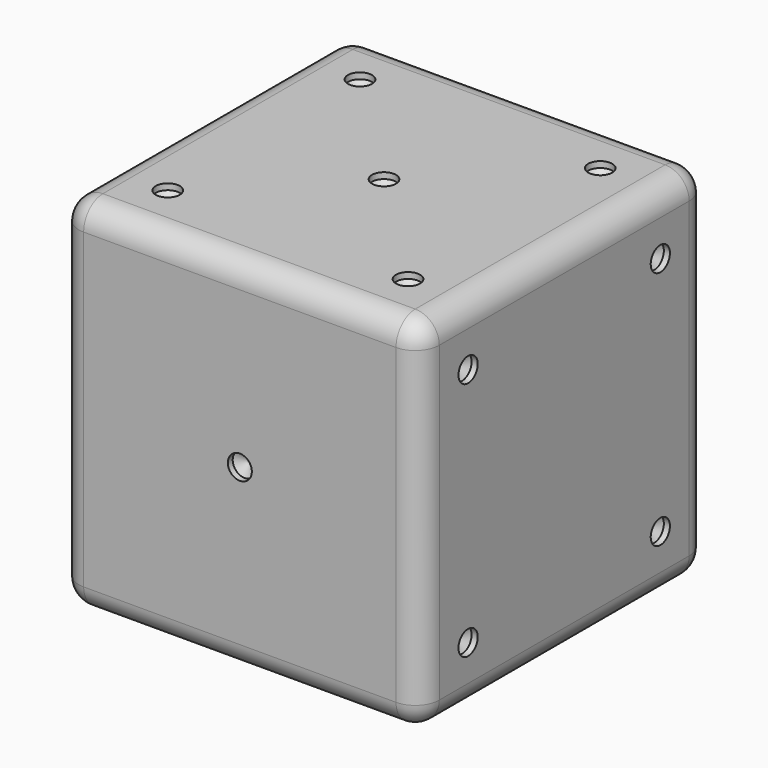
from build123d import *

# Parameters (mm, degrees)
F0_W      = 30
F0_H      = 30
F1_DEPTH  = 15
F2_R      = 2
F3_R      = 2
F10_D     = 2
F10_DEPTH = 0.508
F10_TIP   = 0.600860619
F11_D     = 2
F11_DEPTH = 0.508
F11_TIP   = 0.600860619
F12_D     = 2
F12_DEPTH = 0.508
F12_TIP   = 0.600860619
F13_D     = 2
F13_DEPTH = 0.508
F13_TIP   = 0.600860619
F14_D     = 2
F14_DEPTH = 0.508
F14_TIP   = 0.600860619
F15_D     = 2
F15_DEPTH = 0.508
F15_TIP   = 0.600860619


with BuildPart() as f1:
    # F0 (on Front) → F1 (new body, symmetric)
    with BuildSketch(Plane.XZ):
        with Locations((-1.0603153623, 0.943120569)):
            Rectangle(F0_W, F0_H)
    extrude(amount=F1_DEPTH, both=True)

    # F2
    f2_edges = [f1.edges().sort_by_distance(p)[0] for p in [
        (-1.060315, -15, 15.943121),
    ]]
    fillet(f2_edges, radius=F2_R)

    # F3
    f3_edges = [f1.edges().sort_by_distance(p)[0] for p in [
        (13.939685, 1, 15.943121),
        (-1.060315, 15, 15.943121),
        (-16.060315, 1, 15.943121),
        (-16.060315, 15, 0.943121),
        (13.939685, 15, 0.943121),
        (13.939685, -15, -0.056879),
        (-16.060315, 0, -14.056879),
        (-1.060315, 15, -14.056879),
        (13.939685, 0, -14.056879),
        (-1.060315, -15, -14.056879),
        (-16.060315, -15, -0.056879),
    ]]
    fillet(f3_edges, radius=F3_R)

    # F10
    with Locations(Plane.XZ.offset(15)):
        with Locations((-1.0603153623, 0.943120569)):
            Hole(F10_D / 2, depth=F10_DEPTH)
            with Locations((0, 0, -(F10_DEPTH + F10_TIP / 2))):  # 118° drill point
                Cone(0, F10_D / 2, F10_TIP, mode=Mode.SUBTRACT)

    # F11
    with Locations(Plane.XY.offset(15.943120569)):
        with Locations((-11.0603153623, 10), (-1.0603153623, 0), (8.9396846377, 10), (8.9396846377, -10), (-11.0603153623, -10)):
            Hole(F11_D / 2, depth=F11_DEPTH)
            with Locations((0, 0, -(F11_DEPTH + F11_TIP / 2))):  # 118° drill point
                Cone(0, F11_D / 2, F11_TIP, mode=Mode.SUBTRACT)

    # F12
    with Locations(Plane(origin=(0, 15, 0), x_dir=(-1, 0, 0), z_dir=(0, 1, 0))):
        with Locations((-8.9396846377, 10.943120569), (-8.9396846377, 0.943120569), (-8.9396846377, -9.056879431), (11.0603153623, -9.056879431), (11.0603153623, 0.943120569), (11.0603153623, 10.943120569)):
            Hole(F12_D / 2, depth=F12_DEPTH)
            with Locations((0, 0, -(F12_DEPTH + F12_TIP / 2))):  # 118° drill point
                Cone(0, F12_D / 2, F12_TIP, mode=Mode.SUBTRACT)

    # F13
    with Locations(Plane(origin=(0, 0, -14.056879431), x_dir=(1, 0, 0), z_dir=(0, 0, -1))):
        with Locations((8.9396846377, 10), (-11.0603153623, -10)):
            Hole(F13_D / 2, depth=F13_DEPTH)
            with Locations((0, 0, -(F13_DEPTH + F13_TIP / 2))):  # 118° drill point
                Cone(0, F13_D / 2, F13_TIP, mode=Mode.SUBTRACT)

    # F14
    with Locations(Plane.YZ.offset(13.9396846377)):
        with Locations((-10, 10.943120569), (-10, -9.056879431), (10, -9.056879431), (10, 10.943120569)):
            Hole(F14_D / 2, depth=F14_DEPTH)
            with Locations((0, 0, -(F14_DEPTH + F14_TIP / 2))):  # 118° drill point
                Cone(0, F14_D / 2, F14_TIP, mode=Mode.SUBTRACT)

    # F15
    with Locations(Plane(origin=(-16.0603153623, 0, 0), x_dir=(0, -1, 0), z_dir=(-1, 0, 0))):
        with Locations((-10, 10.943120569), (0, 0.943120569), (10, -9.056879431)):
            Hole(F15_D / 2, depth=F15_DEPTH)
            with Locations((0, 0, -(F15_DEPTH + F15_TIP / 2))):  # 118° drill point
                Cone(0, F15_D / 2, F15_TIP, mode=Mode.SUBTRACT)


solid = f1.part
